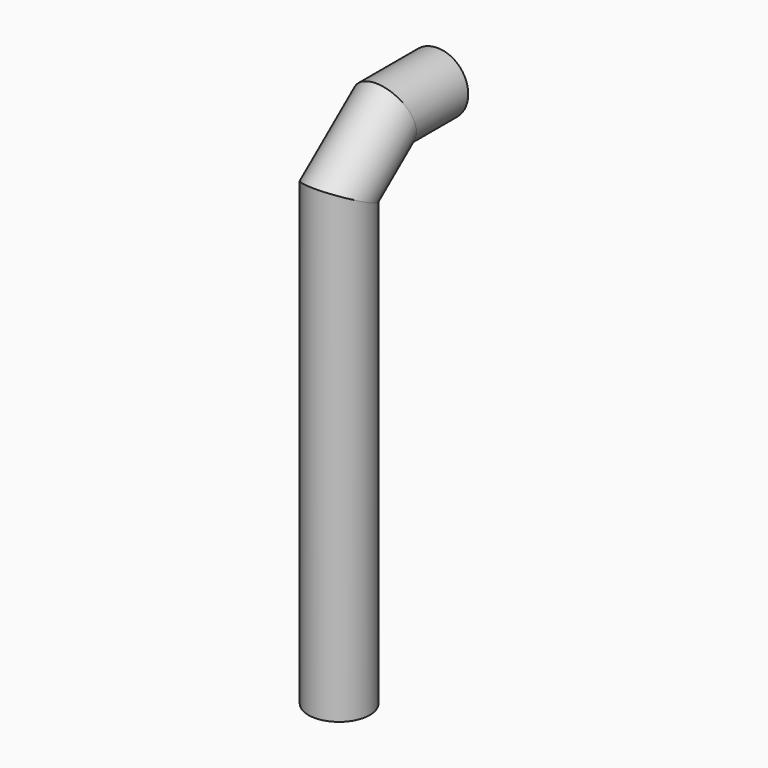
from build123d import *

# Parameters (mm, degrees)
F0_R = 5.0753027222
F3_R = 3.5970801713


with BuildPart() as f2:
    # F2: sweep along a path in F1
    with BuildLine(Plane.YZ) as f2_path:
        Line((0, 0), (0, 74.5112523437))
        Line((0, 74.5112523437), (9.4188367948, 82.0430591702))
        Line((9.4188367948, 82.0430591702), (20.3248672187, 82.0430591702))
    # F0 (on Top) → F2 (sweep)
    with BuildSketch(Plane.XY):
        Circle(F0_R)
    sweep(path=f2_path.line, transition=Transition.RIGHT)

    # F5: sweep along a path in F4
    with BuildLine(Plane.YZ) as f5_path:
        Line((20.4310938716, 82.3482424021), (9.5250671729, 82.3482424021))
        Line((9.5250671729, 82.3482424021), (0, 74.9123170972))
        Line((0, 74.9123170972), (0.1488290582, -0.2718660398))
    # F3 (on face) → F5 (sweep, cut)
    with BuildSketch(Plane(origin=(0, 20.3248672187, 0), x_dir=(-1, 0, 0), z_dir=(0, 1, 0))):
        with Locations((0, 82.0430591702)):
            Circle(F3_R)
    sweep(path=f5_path.line, transition=Transition.RIGHT, mode=Mode.SUBTRACT)


solid = f2.part
